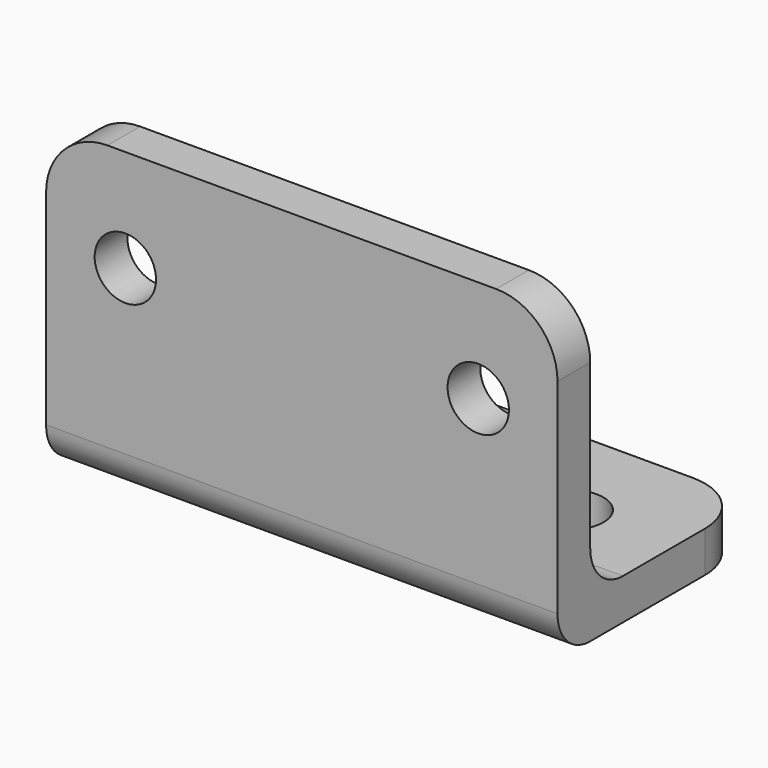
from build123d import *

# Parameters (mm, degrees)
SKETCH_R     = 1.5
PAD_DEPTH    = 2
SKETCH001_W  = 25
SKETCH001_H  = 2
PAD001_DEPTH = 10
SKETCH002_R  = 1.65
POCKET_DEPTH = 2.001
FILLET_R     = 2
FILLET001_R  = 3


with BuildPart() as part:
    # Sketch → Pad (new body)
    with BuildSketch(Plane.XZ):
        Polygon((-12.5, 5), (-12.5, -5), (-12.5, -10), (12.5, -10), (12.5, -5), (12.5, 5), align=None)
        with Locations((-8.625, 0)):
            Circle(SKETCH_R, mode=Mode.SUBTRACT)
        with Locations((8.625, 0)):
            Circle(SKETCH_R, mode=Mode.SUBTRACT)
    extrude(amount=-PAD_DEPTH)

    # Sketch001 (on Face6 of Pad) → Pad001 (join)
    with BuildSketch(Plane(origin=(0, 2, 0), x_dir=(1, 0, 0), z_dir=(0, 1, 0))):
        with Locations((0, 9)):
            Rectangle(SKETCH001_W, SKETCH001_H)
    extrude(amount=PAD001_DEPTH)

    # Sketch002 (on Face6 of Pad001) → Pocket (cut, through all)
    with BuildSketch(Plane(origin=(0, 0, -8), x_dir=(-1, 0, 0), z_dir=(0, 0, 1))):
        with Locations((-7.5, -7)):
            Circle(SKETCH002_R)
        with Locations((7.5, -7)):
            Circle(SKETCH002_R)
    extrude(amount=-POCKET_DEPTH, mode=Mode.SUBTRACT)

    # Fillet
    fillet_edges = [part.edges().sort_by_distance(p)[0] for p in [
        (0, 2, -8),
        (0, 0, -10),
    ]]
    fillet(fillet_edges, radius=FILLET_R)

    # Fillet001
    fillet001_edges = [part.edges().sort_by_distance(p)[0] for p in [
        (-12.5, 1, 5),
        (12.5, 1, 5),
        (12.5, 12, -9),
        (-12.5, 12, -9),
    ]]
    fillet(fillet001_edges, radius=FILLET001_R)


solid = part.part
